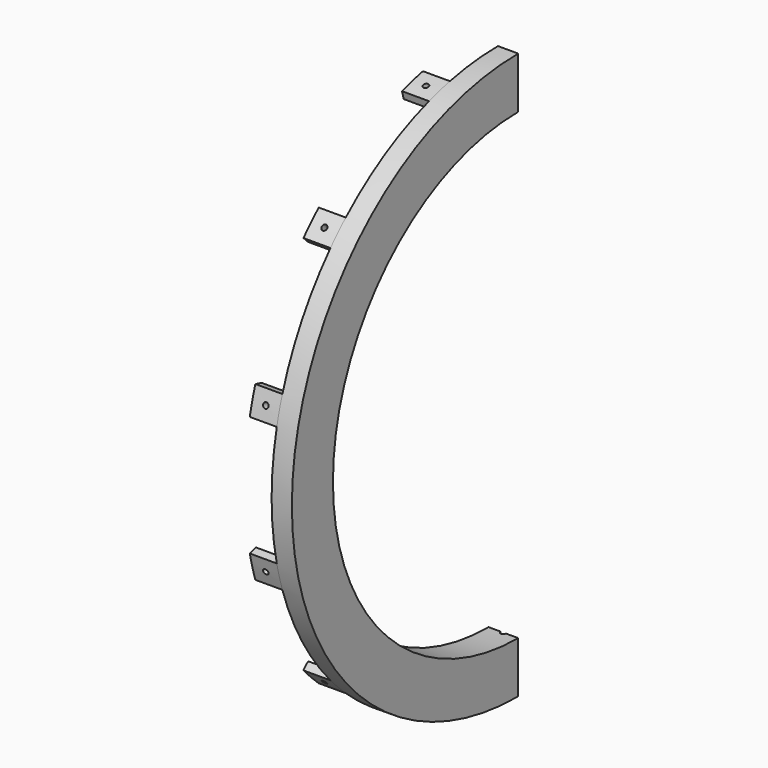
from build123d import *

# Parameters (mm, degrees)
F1_ANGLE  = 180
F3_R      = 1
F4_DEPTH  = 10
F7_R      = 1
F8_DEPTH  = 10
F9_R      = 1
F10_DEPTH = 10
F12_START = 3
F11_R     = 5
F12_DEPTH = 22
F14_START = 2
F14_DEPTH = 23
F16_DEPTH = 5
F18_DEPTH = 5
F19_DEPTH = 5
F20_DEPTH = 5
F21_DEPTH = 5
F22_DEPTH = 5
F23_DEPTH = 5


with BuildPart() as f1:
    # F0 (on Front) → F1 (revolve)
    with BuildSketch(Plane.XZ):
        Polygon((-16.7513387203, 88.73), (-16.7513387203, 85.73), (-5.7513387203, 85.73), (-5.7513387203, 104.73), (-7.7513387203, 104.73), (-8.7513387203, 104.73), (-13.2513387203, 104.73), (-13.2513387203, 99.23), (-8.2513387203, 99.23), (-8.2513387203, 94.23), (-13.2513387203, 94.23), (-13.2513387203, 88.73), align=None)
    revolve(axis=Axis((-0.0001329999, 0, 0), (1, 0, 0)), revolution_arc=F1_ANGLE)

    # F3 (on offset) → F4 (cut)
    with BuildSketch(Plane.XY.offset(-80)):
        with Locations((-11.2513387203, 0)):
            Circle(F3_R)
    extrude(amount=-F4_DEPTH, mode=Mode.SUBTRACT)

    # F7 (on offset) → F8 (cut)
    with BuildSketch(Plane.XZ.offset(80)):
        with Locations((-11.2513387203, 0)):
            Circle(F7_R)
    extrude(amount=F8_DEPTH, mode=Mode.SUBTRACT)

    # F9 (on offset) → F10 (cut)
    with BuildSketch(Plane.XY.offset(80)):
        with Locations((-11.2513387203, 0)):
            Circle(F9_R)
    extrude(amount=F10_DEPTH, mode=Mode.SUBTRACT)

    # F11 (on face) → F12 (cut)
    with BuildSketch(Plane(origin=(-8.2513387203, 0, 0), x_dir=(0, -1, 0), z_dir=(-1, 0, 0)).offset(F12_START)):
        with Locations((0, 96.73)):
            Circle(F11_R)
        with Locations((-10.1110382519, 96.200102939)):
            Circle(F11_R)
        with Locations((-20.1112978528, 94.616217419)):
            Circle(F11_R)
        with Locations((-29.8912138659, 91.9956968212)):
            Circle(F11_R)
        with Locations((-39.3436354847, 88.3672521178)):
            Circle(F11_R)
        with Locations((-48.365, 83.7706373081)):
            Circle(F11_R)
        with Locations((-56.8564674543, 78.2562138659)):
            Circle(F11_R)
        with Locations((-64.7250035531, 71.8843989684)):
            Circle(F11_R)
        with Locations((-71.8843989684, 64.7250035531)):
            Circle(F11_R)
        with Locations((-78.2562138659, 56.8564674543)):
            Circle(F11_R)
        with Locations((-83.7706373081, 48.365)):
            Circle(F11_R)
        with Locations((-88.3672521178, 39.3436354847)):
            Circle(F11_R)
        with Locations((-91.9956968212, 29.8912138659)):
            Circle(F11_R)
        with Locations((-94.616217419, 20.1112978528)):
            Circle(F11_R)
        with Locations((-96.200102939, 10.1110382519)):
            Circle(F11_R)
        with Locations((-96.73, 0)):
            Circle(F11_R)
        with Locations((-96.200102939, -10.1110382519)):
            Circle(F11_R)
        with Locations((-94.616217419, -20.1112978528)):
            Circle(F11_R)
        with Locations((-91.9956968212, -29.8912138659)):
            Circle(F11_R)
        with Locations((-88.3672521178, -39.3436354847)):
            Circle(F11_R)
        with Locations((-83.7706373081, -48.365)):
            Circle(F11_R)
        with Locations((-78.2562138659, -56.8564674543)):
            Circle(F11_R)
        with Locations((-71.8843989684, -64.7250035531)):
            Circle(F11_R)
        with Locations((-64.7250035531, -71.8843989684)):
            Circle(F11_R)
        with Locations((-56.8564674543, -78.2562138659)):
            Circle(F11_R)
        with Locations((-48.365, -83.7706373081)):
            Circle(F11_R)
        with Locations((-39.3436354847, -88.3672521178)):
            Circle(F11_R)
        with Locations((-29.8912138659, -91.9956968212)):
            Circle(F11_R)
        with Locations((-20.1112978528, -94.616217419)):
            Circle(F11_R)
        with Locations((-10.1110382519, -96.200102939)):
            Circle(F11_R)
        with Locations((0, -96.73)):
            Circle(F11_R)
        with Locations((10.1110382519, -96.200102939)):
            Circle(F11_R)
        with Locations((20.1112978528, -94.616217419)):
            Circle(F11_R)
        with Locations((29.8912138659, -91.9956968212)):
            Circle(F11_R)
        with Locations((39.3436354847, -88.3672521178)):
            Circle(F11_R)
        with Locations((48.365, -83.7706373081)):
            Circle(F11_R)
        with Locations((56.8564674543, -78.2562138659)):
            Circle(F11_R)
        with Locations((64.7250035531, -71.8843989684)):
            Circle(F11_R)
        with Locations((71.8843989684, -64.7250035531)):
            Circle(F11_R)
        with Locations((78.2562138659, -56.8564674543)):
            Circle(F11_R)
        with Locations((83.7706373081, -48.365)):
            Circle(F11_R)
        with Locations((88.3672521178, -39.3436354847)):
            Circle(F11_R)
        with Locations((91.9956968212, -29.8912138659)):
            Circle(F11_R)
        with Locations((94.616217419, -20.1112978528)):
            Circle(F11_R)
        with Locations((96.200102939, -10.1110382519)):
            Circle(F11_R)
        with Locations((96.73, 0)):
            Circle(F11_R)
        with Locations((96.200102939, 10.1110382519)):
            Circle(F11_R)
        with Locations((94.616217419, 20.1112978528)):
            Circle(F11_R)
        with Locations((91.9956968212, 29.8912138659)):
            Circle(F11_R)
        with Locations((88.3672521178, 39.3436354847)):
            Circle(F11_R)
        with Locations((83.7706373081, 48.365)):
            Circle(F11_R)
        with Locations((78.2562138659, 56.8564674543)):
            Circle(F11_R)
        with Locations((71.8843989684, 64.7250035531)):
            Circle(F11_R)
        with Locations((64.7250035531, 71.8843989684)):
            Circle(F11_R)
        with Locations((56.8564674543, 78.2562138659)):
            Circle(F11_R)
        with Locations((48.365, 83.7706373081)):
            Circle(F11_R)
        with Locations((39.3436354847, 88.3672521178)):
            Circle(F11_R)
        with Locations((29.8912138659, 91.9956968212)):
            Circle(F11_R)
        with Locations((20.1112978528, 94.616217419)):
            Circle(F11_R)
        with Locations((10.1110382519, 96.200102939)):
            Circle(F11_R)
    extrude(amount=F12_DEPTH, mode=Mode.SUBTRACT)

    # F13 (on face) → F14 (cut)
    with BuildSketch(Plane(origin=(-8.2513387203, 0, 0), x_dir=(0, -1, 0), z_dir=(-1, 0, 0)).offset(F14_START)):
        Polygon((0, 92.48), (1.3575944178, 92.48), (1.3575944178, 100.98), (0, 100.98), (-1.3575944178, 100.98), (-1.3575944178, 92.48), align=None)
        Polygon((-9.666792283, 91.9733848837), (-8.3166349095, 92.1152921419), (-9.2051268473, 100.5687282525), (-10.5552842208, 100.4268209943), (-11.9054415943, 100.2849137361), (-11.0169496565, 91.8314776254), align=None)
        Polygon((-19.2276731668, 90.4590901159), (-17.8997454443, 90.7413498667), (-19.6669948163, 99.0556044729), (-20.9949225388, 98.7733447221), (-22.3228502613, 98.4910849713), (-20.5556008893, 90.176830365), align=None)
        Polygon((-28.5778916398, 87.953706627), (-27.2867426223, 88.3732263735), (-29.9133870745, 96.457206762), (-31.204536092, 96.0376870155), (-32.4956851095, 95.6181672689), (-29.8690406573, 87.5341868804), align=None)
        Polygon((-37.6150047516, 84.4846839228), (-36.374780538, 85.0368673189), (-39.8320420041, 92.8020037089), (-41.0722662178, 92.2498203127), (-42.3124904315, 91.6976369166), (-38.8552289653, 83.9325005266), align=None)
        Polygon((-46.24, 80.090029342), (-45.0642887462, 80.7688265509), (-49.3142887462, 88.130042483), (-50.49, 87.4512452742), (-51.6657112538, 86.7724480653), (-47.4157112538, 79.4112321331), align=None)
        Polygon((-54.358380132, 74.8178916398), (-53.2600631766, 75.6158656172), (-58.2562378211, 82.4925100693), (-59.3545547765, 81.694536092), (-60.4528717319, 80.8965621146), (-55.4566970874, 74.0199176624), align=None)
        Polygon((-61.8811984761, 68.7260334601), (-60.8723092094, 69.6344414361), (-66.5599193635, 75.9511724527), (-67.5688086301, 75.0427644767), (-68.5776978968, 74.1343565008), (-62.8900877427, 67.8176254842), align=None)
        Polygon((-68.7260334601, 61.8811984761), (-67.8176254842, 62.8900877427), (-74.1343565008, 68.5776978968), (-75.0427644767, 67.5688086301), (-75.9511724527, 66.5599193635), (-69.6344414361, 60.8723092094), align=None)
        Polygon((-74.8178916398, 54.358380132), (-74.0199176624, 55.4566970874), (-80.8965621146, 60.4528717319), (-81.694536092, 59.3545547765), (-82.4925100693, 58.2562378211), (-75.6158656172, 53.2600631766), align=None)
        Polygon((-80.090029342, 46.24), (-79.4112321331, 47.4157112538), (-86.7724480653, 51.6657112538), (-87.4512452742, 50.49), (-88.130042483, 49.3142887462), (-80.7688265509, 45.0642887462), align=None)
        Polygon((-84.4846839228, 37.6150047517), (-83.9325005266, 38.8552289653), (-91.6976369166, 42.3124904315), (-92.2498203127, 41.0722662178), (-92.8020037089, 39.8320420041), (-85.0368673189, 36.374780538), align=None)
        Polygon((-87.953706627, 28.5778916398), (-87.5341868804, 29.8690406573), (-95.6181672689, 32.4956851095), (-96.0376870155, 31.204536092), (-96.457206762, 29.9133870745), (-88.3732263735, 27.2867426223), align=None)
        Polygon((-90.4590901159, 19.2276731668), (-90.176830365, 20.5556008893), (-98.4910849713, 22.3228502613), (-98.7733447221, 20.9949225388), (-99.0556044729, 19.6669948163), (-90.7413498667, 17.8997454443), align=None)
        Polygon((-91.9733848837, 9.666792283), (-91.8314776254, 11.0169496565), (-100.2849137361, 11.9054415943), (-100.4268209943, 10.5552842208), (-100.5687282525, 9.2051268473), (-92.1152921419, 8.3166349095), align=None)
        Polygon((-92.48, 0), (-92.48, 1.3575944178), (-100.98, 1.3575944178), (-100.98, 0), (-100.98, -1.3575944178), (-92.48, -1.3575944178), align=None)
        Polygon((-91.9733848837, -9.666792283), (-92.1152921419, -8.3166349095), (-100.5687282525, -9.2051268473), (-100.4268209943, -10.5552842208), (-100.2849137361, -11.9054415943), (-91.8314776254, -11.0169496565), align=None)
        Polygon((-90.4590901159, -19.2276731668), (-90.7413498667, -17.8997454443), (-99.0556044729, -19.6669948163), (-98.7733447221, -20.9949225388), (-98.4910849713, -22.3228502613), (-90.176830365, -20.5556008893), align=None)
        Polygon((-87.953706627, -28.5778916398), (-88.3732263735, -27.2867426223), (-96.457206762, -29.9133870745), (-96.0376870155, -31.204536092), (-95.6181672689, -32.4956851095), (-87.5341868804, -29.8690406573), align=None)
        Polygon((-84.4846839228, -37.6150047516), (-85.0368673189, -36.374780538), (-92.8020037089, -39.8320420041), (-92.2498203127, -41.0722662178), (-91.6976369166, -42.3124904315), (-83.9325005266, -38.8552289653), align=None)
        Polygon((-80.090029342, -46.24), (-80.7688265509, -45.0642887462), (-88.130042483, -49.3142887462), (-87.4512452742, -50.49), (-86.7724480653, -51.6657112538), (-79.4112321331, -47.4157112538), align=None)
        Polygon((-74.8178916398, -54.358380132), (-75.6158656172, -53.2600631766), (-82.4925100693, -58.2562378211), (-81.694536092, -59.3545547765), (-80.8965621146, -60.4528717319), (-74.0199176624, -55.4566970874), align=None)
        Polygon((-68.7260334601, -61.8811984761), (-69.6344414361, -60.8723092094), (-75.9511724527, -66.5599193635), (-75.0427644767, -67.5688086301), (-74.1343565008, -68.5776978968), (-67.8176254842, -62.8900877427), align=None)
        Polygon((-61.8811984761, -68.7260334601), (-62.8900877427, -67.8176254842), (-68.5776978968, -74.1343565008), (-67.5688086301, -75.0427644767), (-66.5599193635, -75.9511724527), (-60.8723092094, -69.6344414361), align=None)
        Polygon((-54.358380132, -74.8178916398), (-55.4566970874, -74.0199176624), (-60.4528717319, -80.8965621146), (-59.3545547765, -81.694536092), (-58.2562378211, -82.4925100693), (-53.2600631766, -75.6158656172), align=None)
        Polygon((-46.24, -80.090029342), (-47.4157112538, -79.4112321331), (-51.6657112538, -86.7724480653), (-50.49, -87.4512452742), (-49.3142887462, -88.130042483), (-45.0642887462, -80.7688265509), align=None)
        Polygon((-37.6150047516, -84.4846839228), (-38.8552289653, -83.9325005266), (-42.3124904315, -91.6976369166), (-41.0722662178, -92.2498203127), (-39.8320420041, -92.8020037089), (-36.374780538, -85.0368673189), align=None)
        Polygon((-28.5778916398, -87.953706627), (-29.8690406573, -87.5341868804), (-32.4956851095, -95.6181672689), (-31.204536092, -96.0376870155), (-29.9133870745, -96.457206762), (-27.2867426223, -88.3732263735), align=None)
        Polygon((-19.2276731668, -90.4590901159), (-20.5556008893, -90.176830365), (-22.3228502613, -98.4910849713), (-20.9949225388, -98.7733447221), (-19.6669948163, -99.0556044729), (-17.8997454443, -90.7413498667), align=None)
        Polygon((-9.666792283, -91.9733848837), (-11.0169496565, -91.8314776254), (-11.9054415943, -100.2849137361), (-10.5552842208, -100.4268209943), (-9.2051268473, -100.5687282525), (-8.3166349095, -92.1152921419), align=None)
        Polygon((0, -92.48), (-1.3575944178, -92.48), (-1.3575944178, -100.98), (0, -100.98), (1.3575944178, -100.98), (1.3575944178, -92.48), align=None)
        Polygon((9.666792283, -91.9733848837), (8.3166349095, -92.1152921419), (9.2051268473, -100.5687282525), (10.5552842208, -100.4268209943), (11.9054415943, -100.2849137361), (11.0169496565, -91.8314776254), align=None)
        Polygon((19.2276731668, -90.4590901159), (17.8997454443, -90.7413498667), (19.6669948163, -99.0556044729), (20.9949225388, -98.7733447221), (22.3228502613, -98.4910849713), (20.5556008893, -90.176830365), align=None)
        Polygon((28.5778916398, -87.953706627), (27.2867426223, -88.3732263735), (29.9133870745, -96.457206762), (31.204536092, -96.0376870155), (32.4956851095, -95.6181672689), (29.8690406573, -87.5341868804), align=None)
        Polygon((37.6150047516, -84.4846839228), (36.374780538, -85.0368673189), (39.8320420041, -92.8020037089), (41.0722662178, -92.2498203127), (42.3124904315, -91.6976369166), (38.8552289653, -83.9325005266), align=None)
        Polygon((46.24, -80.090029342), (45.0642887462, -80.7688265509), (49.3142887462, -88.130042483), (50.49, -87.4512452742), (51.6657112538, -86.7724480653), (47.4157112538, -79.4112321331), align=None)
        Polygon((54.358380132, -74.8178916398), (53.2600631766, -75.6158656172), (58.2562378211, -82.4925100693), (59.3545547765, -81.694536092), (60.4528717319, -80.8965621146), (55.4566970874, -74.0199176624), align=None)
        Polygon((61.8811984761, -68.7260334601), (60.8723092094, -69.6344414361), (66.5599193635, -75.9511724527), (67.5688086301, -75.0427644767), (68.5776978968, -74.1343565008), (62.8900877427, -67.8176254842), align=None)
        Polygon((68.7260334601, -61.8811984761), (67.8176254842, -62.8900877427), (74.1343565008, -68.5776978968), (75.0427644767, -67.5688086301), (75.9511724527, -66.5599193635), (69.6344414361, -60.8723092094), align=None)
        Polygon((74.8178916398, -54.358380132), (74.0199176624, -55.4566970874), (80.8965621146, -60.4528717319), (81.694536092, -59.3545547765), (82.4925100693, -58.2562378211), (75.6158656172, -53.2600631766), align=None)
        Polygon((80.090029342, -46.24), (79.4112321331, -47.4157112538), (86.7724480653, -51.6657112538), (87.4512452742, -50.49), (88.130042483, -49.3142887462), (80.7688265509, -45.0642887462), align=None)
        Polygon((84.4846839228, -37.6150047517), (83.9325005266, -38.8552289653), (91.6976369166, -42.3124904315), (92.2498203127, -41.0722662178), (92.8020037089, -39.8320420041), (85.0368673189, -36.374780538), align=None)
        Polygon((87.953706627, -28.5778916398), (87.5341868804, -29.8690406573), (95.6181672689, -32.4956851095), (96.0376870155, -31.204536092), (96.457206762, -29.9133870745), (88.3732263735, -27.2867426223), align=None)
        Polygon((90.4590901159, -19.2276731668), (90.176830365, -20.5556008893), (98.4910849713, -22.3228502613), (98.7733447221, -20.9949225388), (99.0556044729, -19.6669948163), (90.7413498667, -17.8997454443), align=None)
        Polygon((91.9733848837, -9.666792283), (91.8314776254, -11.0169496565), (100.2849137361, -11.9054415943), (100.4268209943, -10.5552842208), (100.5687282525, -9.2051268473), (92.1152921419, -8.3166349095), align=None)
        Polygon((92.48, 0), (92.48, -1.3575944178), (100.98, -1.3575944178), (100.98, 0), (100.98, 1.3575944178), (92.48, 1.3575944178), align=None)
        Polygon((91.9733848837, 9.666792283), (92.1152921419, 8.3166349095), (100.5687282525, 9.2051268473), (100.4268209943, 10.5552842208), (100.2849137361, 11.9054415943), (91.8314776254, 11.0169496565), align=None)
        Polygon((90.4590901159, 19.2276731668), (90.7413498667, 17.8997454443), (99.0556044729, 19.6669948163), (98.7733447221, 20.9949225388), (98.4910849713, 22.3228502613), (90.176830365, 20.5556008893), align=None)
        Polygon((87.953706627, 28.5778916398), (88.3732263735, 27.2867426223), (96.457206762, 29.9133870745), (96.0376870155, 31.204536092), (95.6181672689, 32.4956851095), (87.5341868804, 29.8690406573), align=None)
        Polygon((84.4846839228, 37.6150047516), (85.0368673189, 36.374780538), (92.8020037089, 39.8320420041), (92.2498203127, 41.0722662178), (91.6976369166, 42.3124904315), (83.9325005266, 38.8552289653), align=None)
        Polygon((80.090029342, 46.24), (80.7688265509, 45.0642887462), (88.130042483, 49.3142887462), (87.4512452742, 50.49), (86.7724480653, 51.6657112538), (79.4112321331, 47.4157112538), align=None)
        Polygon((74.8178916398, 54.358380132), (75.6158656172, 53.2600631766), (82.4925100693, 58.2562378211), (81.694536092, 59.3545547765), (80.8965621146, 60.4528717319), (74.0199176624, 55.4566970874), align=None)
        Polygon((68.7260334601, 61.8811984761), (69.6344414361, 60.8723092094), (75.9511724527, 66.5599193635), (75.0427644767, 67.5688086301), (74.1343565008, 68.5776978968), (67.8176254842, 62.8900877427), align=None)
        Polygon((61.8811984761, 68.7260334601), (62.8900877427, 67.8176254842), (68.5776978968, 74.1343565008), (67.5688086301, 75.0427644767), (66.5599193635, 75.9511724527), (60.8723092094, 69.6344414361), align=None)
        Polygon((54.358380132, 74.8178916398), (55.4566970874, 74.0199176624), (60.4528717319, 80.8965621146), (59.3545547765, 81.694536092), (58.2562378211, 82.4925100693), (53.2600631766, 75.6158656172), align=None)
        Polygon((46.24, 80.090029342), (47.4157112538, 79.4112321331), (51.6657112538, 86.7724480653), (50.49, 87.4512452742), (49.3142887462, 88.130042483), (45.0642887462, 80.7688265509), align=None)
        Polygon((37.6150047516, 84.4846839228), (38.8552289653, 83.9325005266), (42.3124904315, 91.6976369166), (41.0722662178, 92.2498203127), (39.8320420041, 92.8020037089), (36.374780538, 85.0368673189), align=None)
        Polygon((28.5778916398, 87.953706627), (29.8690406573, 87.5341868804), (32.4956851095, 95.6181672689), (31.204536092, 96.0376870155), (29.9133870745, 96.457206762), (27.2867426223, 88.3732263735), align=None)
        Polygon((19.2276731668, 90.4590901159), (20.5556008893, 90.176830365), (22.3228502613, 98.4910849713), (20.9949225388, 98.7733447221), (19.6669948163, 99.0556044729), (17.8997454443, 90.7413498667), align=None)
        Polygon((9.666792283, 91.9733848837), (11.0169496565, 91.8314776254), (11.9054415943, 100.2849137361), (10.5552842208, 100.4268209943), (9.2051268473, 100.5687282525), (8.3166349095, 92.1152921419), align=None)
    extrude(amount=F14_DEPTH, mode=Mode.SUBTRACT)

    # F15 (on face) → F16 (join)
    with BuildSketch(Plane(origin=(-13.2513387203, 0, 0), x_dir=(0, -1, 0), z_dir=(-1, 0, 0))):
        with BuildLine():
            Line((21.468210895, -99.4389703334), (22.2455806139, -102.3401536209))
            ThreePointArc((22.2455806139, -102.3401536209), (27.1061185936, -101.1614117873), (31.9048388768, -99.7519631699))
            Line((31.9048388768, -99.7519631699), (31.1274691579, -96.8507798824))
            ThreePointArc((31.1274691579, -96.8507798824), (26.3296614583, -98.2636343084), (21.468210895, -99.4389703334))
        make_face()
        with BuildLine():
            Line((68.3115011756, -75.3825689874), (70.4353147441, -77.5063825559))
            ThreePointArc((70.4353147441, -77.5063825559), (74.0552931937, -74.0552931937), (77.5063825559, -70.4353147441))
            Line((77.5063825559, -70.4353147441), (75.3825689874, -68.3115011756))
            ThreePointArc((75.3825689874, -68.3115011756), (71.9339728501, -71.9339728501), (68.3115011756, -75.3825689874))
        make_face()
        with BuildLine():
            Line((96.8507798824, -31.1274691579), (99.7519631699, -31.9048388768))
            ThreePointArc((99.7519631699, -31.9048388768), (101.1614117873, -27.1061185936), (102.3401536209, -22.2455806139))
            Line((102.3401536209, -22.2455806139), (99.4389703334, -21.468210895))
            ThreePointArc((99.4389703334, -21.468210895), (98.2636343084, -26.3296614583), (96.8507798824, -31.1274691579))
        make_face()
        with BuildLine():
            Line((99.4389703334, 21.468210895), (102.3401536209, 22.2455806139))
            ThreePointArc((102.3401536209, 22.2455806139), (101.1614117873, 27.1061185936), (99.7519631699, 31.9048388768))
            Line((99.7519631699, 31.9048388768), (96.8507798824, 31.1274691579))
            ThreePointArc((96.8507798824, 31.1274691579), (98.2636343084, 26.3296614583), (99.4389703334, 21.468210895))
        make_face()
        with BuildLine():
            Line((75.3825689874, 68.3115011756), (77.5063825559, 70.4353147441))
            ThreePointArc((77.5063825559, 70.4353147441), (74.0552931937, 74.0552931937), (70.4353147441, 77.5063825559))
            Line((70.4353147441, 77.5063825559), (68.3115011756, 75.3825689874))
            ThreePointArc((68.3115011756, 75.3825689874), (71.9339728501, 71.9339728501), (75.3825689874, 68.3115011756))
        make_face()
        with BuildLine():
            Line((31.1274691579, 96.8507798824), (31.9048388768, 99.7519631699))
            ThreePointArc((31.9048388768, 99.7519631699), (27.1061185936, 101.1614117873), (22.2455806139, 102.3401536209))
            Line((22.2455806139, 102.3401536209), (21.468210895, 99.4389703334))
            ThreePointArc((21.468210895, 99.4389703334), (26.3296614583, 98.2636343084), (31.1274691579, 96.8507798824))
        make_face()
    extrude(amount=F16_DEPTH)

    # F17 (on face) → F18 (join)
    with BuildSketch(Plane(origin=(-18.2513387203, 0, 0), x_dir=(0, -1, 0), z_dir=(-1, 0, 0))):
        with BuildLine():
            Line((27.2943151657, -98.0000676512), (28.0708087427, -100.8979811321))
            ThreePointArc((28.0708087427, -100.8979811321), (29.9932978537, -100.343285694), (31.9048388768, -99.7519631699))
            Line((31.9048388768, -99.7519631699), (31.1274691579, -96.8507798824))
            ThreePointArc((31.1274691579, -96.8507798824), (29.2165438833, -97.4442736312), (27.2943151657, -98.0000676512))
        make_face()
        with BuildLine():
            Line((26.3296614583, -98.2636343084), (27.1061185936, -101.1614117873))
            ThreePointArc((27.1061185936, -101.1614117873), (27.5887780899, -101.0308478808), (28.0708087427, -100.8979811321))
            Line((28.0708087427, -100.8979811321), (27.2943151657, -98.0000676512))
            ThreePointArc((27.2943151657, -98.0000676512), (26.8123121735, -98.1330363125), (26.3296614583, -98.2636343084))
        make_face()
        with BuildLine():
            ThreePointArc((22.2455806139, -102.3401536209), (24.6828870221, -101.7798014748), (27.1061185936, -101.1614117873))
            Line((27.1061185936, -101.1614117873), (26.3296614583, -98.2636343084))
            ThreePointArc((26.3296614583, -98.2636343084), (23.906160379, -98.8811832248), (21.468210895, -99.4389703334))
            Line((21.468210895, -99.4389703334), (22.2455806139, -102.3401536209))
        make_face()
    extrude(amount=F18_DEPTH)

    # F19 (add): a face of the model
    f19_faces = [f1.faces().sort_by_distance(p)[0] for p in [
        (-18.2513387203, -72.9660670728, -72.9660670728),
    ]]
    extrude(f19_faces, amount=F19_DEPTH)

    # F20 (add): a face of the model
    f20_faces = [f1.faces().sort_by_distance(p)[0] for p in [
        (-18.2513387203, -99.6735012356, -26.7074341629),
    ]]
    extrude(f20_faces, amount=F20_DEPTH)

    # F21 (add): a face of the model
    f21_faces = [f1.faces().sort_by_distance(p)[0] for p in [
        (-18.2513387203, -99.6735012356, 26.7074341629),
    ]]
    extrude(f21_faces, amount=F21_DEPTH)

    # F22 (add): a face of the model
    f22_faces = [f1.faces().sort_by_distance(p)[0] for p in [
        (-18.2513387203, -72.9660670728, 72.9660670728),
    ]]
    extrude(f22_faces, amount=F22_DEPTH)

    # F23 (add): a face of the model
    f23_faces = [f1.faces().sort_by_distance(p)[0] for p in [
        (-18.2513387203, -26.7074341629, 99.6735012356),
    ]]
    extrude(f23_faces, amount=F23_DEPTH)

    # F17 (on face) → F24 (revolve, cut)
    with BuildSketch(Plane(origin=(-18.2513387203, 0, 0), x_dir=(0, -1, 0), z_dir=(-1, 0, 0))):
        Polygon((27.2355281161, 101.6443747004), (26.2696022898, 101.9031937455), (25.2343261094, 98.0394904403), (26.2002519357, 97.7806713952), align=None)
    revolve(axis=Axis((-18.2513387203, -26.7178900259, 99.7125230478), (0, 0.2588190451, -0.9659258263)), mode=Mode.SUBTRACT)

    # F17 (on face) → F25 (revolve, cut)
    with BuildSketch(Plane(origin=(-18.2513387203, 0, 0), x_dir=(0, -1, 0), z_dir=(-1, 0, 0))):
        Polygon((74.4088465843, 74.4088465843), (73.7017398031, 75.1159533654), (70.8733126783, 72.2875262407), (71.5804194595, 71.5804194595), align=None)
    revolve(axis=Axis((-18.2513387203, -72.9946330219, 72.9946330219), (0, 0.7071067812, -0.7071067812)), mode=Mode.SUBTRACT)

    # F17 (on face) → F26 (revolve, cut)
    with BuildSketch(Plane(origin=(-18.2513387203, 0, 0), x_dir=(0, -1, 0), z_dir=(-1, 0, 0))):
        Polygon((101.6443747004, 27.2355281161), (101.3855556553, 28.2014539424), (97.5218523501, 27.166177762), (97.7806713952, 26.2002519357), align=None)
    revolve(axis=Axis((-18.2513387203, -99.7125230478, 26.7178900259), (0, 0.9659258263, -0.2588190451)), mode=Mode.SUBTRACT)

    # F17 (on face) → F27 (revolve, cut)
    with BuildSketch(Plane(origin=(-18.2513387203, 0, 0), x_dir=(0, -1, 0), z_dir=(-1, 0, 0))):
        Polygon((101.6443747004, -27.2355281161), (101.9031937455, -26.2696022898), (98.0394904403, -25.2343261094), (97.7806713952, -26.2002519357), align=None)
    revolve(axis=Axis((-18.2513387203, -99.7125230478, -26.7178900259), (0, 0.9659258263, 0.2588190451)), mode=Mode.SUBTRACT)

    # F17 (on face) → F28 (revolve, cut)
    with BuildSketch(Plane(origin=(-18.2513387203, 0, 0), x_dir=(0, -1, 0), z_dir=(-1, 0, 0))):
        Polygon((74.4088465843, -74.4088465843), (75.1159533654, -73.7017398031), (72.2875262407, -70.8733126783), (71.5804194595, -71.5804194595), align=None)
    revolve(axis=Axis((-18.2513387203, -72.9946330219, -72.9946330219), (0, 0.7071067812, 0.7071067812)), mode=Mode.SUBTRACT)

    # F17 (on face) → F29 (revolve, cut)
    with BuildSketch(Plane(origin=(-18.2513387203, 0, 0), x_dir=(0, -1, 0), z_dir=(-1, 0, 0))):
        with BuildLine():
            Line((27.1061185936, -101.1614117873), (27.2355281161, -101.6443747004))
            Line((27.2355281161, -101.6443747004), (28.2014539424, -101.3855556553))
            Line((28.2014539424, -101.3855556553), (28.0708087427, -100.8979811321))
            ThreePointArc((28.0708087427, -100.8979811321), (27.5887780899, -101.0308478808), (27.1061185936, -101.1614117873))
        make_face()
        with BuildLine():
            Line((26.2002519357, -97.7806713952), (26.3296614583, -98.2636343084))
            ThreePointArc((26.3296614583, -98.2636343084), (26.8123121735, -98.1330363125), (27.2943151657, -98.0000676512))
            Line((27.2943151657, -98.0000676512), (27.166177762, -97.5218523501))
            Line((27.166177762, -97.5218523501), (26.2002519357, -97.7806713952))
        make_face()
        with BuildLine():
            Line((26.3296614583, -98.2636343084), (27.1061185936, -101.1614117873))
            ThreePointArc((27.1061185936, -101.1614117873), (27.5887780899, -101.0308478808), (28.0708087427, -100.8979811321))
            Line((28.0708087427, -100.8979811321), (27.2943151657, -98.0000676512))
            ThreePointArc((27.2943151657, -98.0000676512), (26.8123121735, -98.1330363125), (26.3296614583, -98.2636343084))
        make_face()
    revolve(axis=Axis((-18.2513387203, -26.7178900259, -99.7125230478), (0, 0.2588190451, 0.9659258263)), mode=Mode.SUBTRACT)


solid = f1.part
